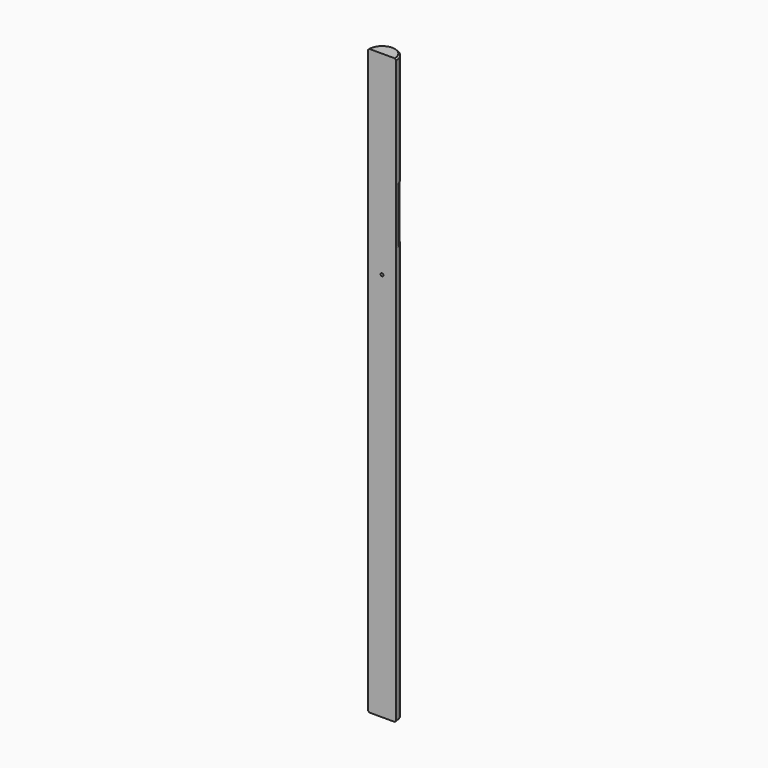
from build123d import *

# Parameters (mm, degrees)
F2_DEPTH = 750
F3_DEPTH = 100
F5_START = 100
F5_DEPTH = 200
F6_SIZE  = 2.54
F7_SIZE  = 2.54
F9_D     = 5


with BuildPart() as f2:
    # F0 (on Top) → F2 (new body)
    with BuildSketch(Plane.XY):
        with BuildLine():
            Line((-25.4, 0), (25.4, 0))
            ThreePointArc((25.4, 0), (0, 25.4), (-25.4, 0))
        make_face()
    extrude(amount=-F2_DEPTH)

    # F1 (on Top) → F3 (join)
    with BuildSketch(Plane.XY):
        with BuildLine():
            Line((-25.4, 0), (25.4, 0))
            ThreePointArc((25.4, 0), (25.2146859333, 3.0626154324), (24.6614477727, 6.0805422254))
            Line((24.6614477727, 6.0805422254), (11.4050507545, 6.0805422254))
            Line((11.4050507545, 6.0805422254), (14.879071159, 20.5857533611))
            ThreePointArc((14.879071159, 20.5857533611), (0, 25.4), (-14.879071159, 20.5857533611))
            Line((-14.879071159, 20.5857533611), (-11.4050507545, 6.0805422254))
            Line((-11.4050507545, 6.0805422254), (-24.6614477727, 6.0805422254))
            ThreePointArc((-24.6614477727, 6.0805422254), (-25.2146859333, 3.0626154324), (-25.4, 0))
        make_face()
    extrude(amount=F3_DEPTH)

    # F4 (on Top) → F5 (join)
    with BuildSketch(Plane.XY.offset(F5_START)):
        with BuildLine():
            Line((-25.4, 0), (25.4, 0))
            ThreePointArc((25.4, 0), (0, 25.4), (-25.4, 0))
        make_face()
    extrude(amount=F5_DEPTH)

    # F6
    f6_edges = [f2.edges().sort_by_distance(p)[0] for p in [
        (0, 25.4, -750),
    ]]
    chamfer(f6_edges, length=F6_SIZE)

    # F7
    f7_edges = [f2.edges().sort_by_distance(p)[0] for p in [
        (0, 25.4, 300),
    ]]
    chamfer(f7_edges, length=F7_SIZE)

    # F9 (through all)
    with Locations(Plane.XZ):
        with Locations((0, -50)):
            Hole(F9_D / 2)


solid = f2.part
